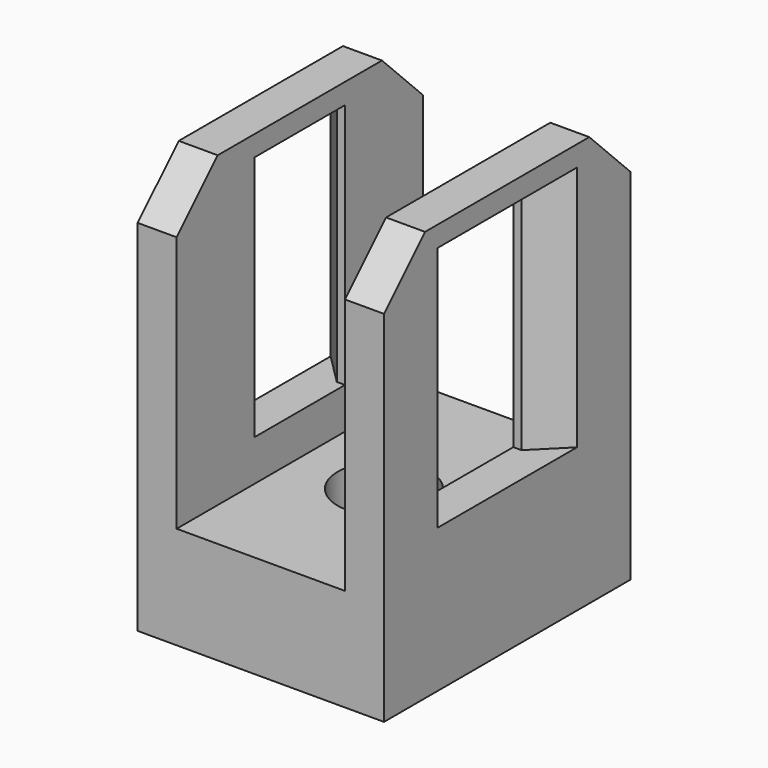
from build123d import *

# Parameters (mm, degrees)
PAD_DEPTH       = 15
SKETCH001_W     = 12
SKETCH001_H     = 5.5
POCKET_DEPTH    = 12.001
SKETCH002_R     = 2.25
POCKET001_DEPTH = 20.001
CHAMFER_SIZE    = 1.5
CHAMFER001_SIZE = 2.5
CHAMFER002_SIZE = 0.5


with BuildPart() as part:
    # Sketch → Pad (new body)
    with BuildSketch(Plane.XZ):
        Polygon((-6, 20), (-4.1, 20), (-4.1, 5), (4.1, 5), (4.1, 20), (6, 20), (6, 0), (-6, 0), align=None)
    extrude(amount=PAD_DEPTH)

    # Sketch001 (on Face2 of Pad) → Pocket (cut, through all)
    with BuildSketch(Plane(origin=(6, 0, 0), x_dir=(0, 0, 1), z_dir=(1, 0, 0))):
        with Locations((13, 7.5)):
            Rectangle(SKETCH001_W, SKETCH001_H)
    extrude(amount=-POCKET_DEPTH, mode=Mode.SUBTRACT)

    # Sketch002 (on Face11 of Pocket) → Pocket001 (cut, through all)
    with BuildSketch(Plane(origin=(0, 0, 0), x_dir=(1, 0, 0), z_dir=(0, 0, -1))):
        with Locations((0, 7.5)):
            Circle(SKETCH002_R)
    extrude(amount=-POCKET001_DEPTH, mode=Mode.SUBTRACT)

    # Chamfer
    chamfer_edges = [part.edges().sort_by_distance(p)[0] for p in [
        (6, -4.75, 13),
        (6, -10.25, 13),
        (-6, -4.75, 13),
        (-6, -10.25, 13),
    ]]
    chamfer(chamfer_edges, length=CHAMFER_SIZE)

    # Chamfer001
    chamfer001_edges = [part.edges().sort_by_distance(p)[0] for p in [
        (-5.05, -15, 20),
        (5.05, -15, 20),
        (5.05, 0, 20),
        (-5.05, 0, 20),
    ]]
    chamfer(chamfer001_edges, length=CHAMFER001_SIZE)

    # Chamfer002
    chamfer002_edges = [part.edges().sort_by_distance(p)[0] for p in [
        (-2.25, -7.5, 0),
    ]]
    chamfer(chamfer002_edges, length=CHAMFER002_SIZE)


solid = part.part
